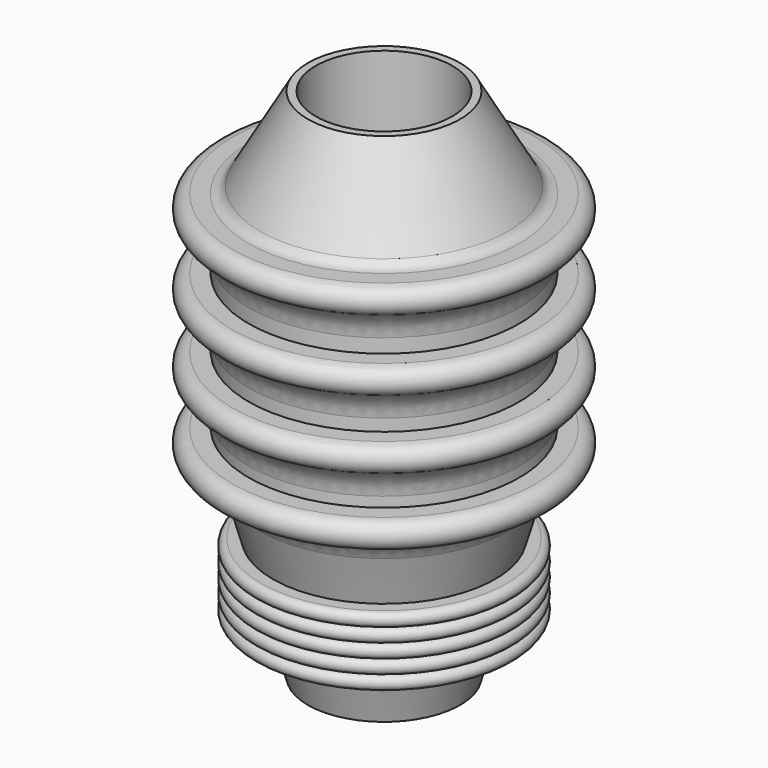
from build123d import *

# Parameters (mm, degrees)
F0_W     = 14.2875
F0_H     = 36.24072
F0_H_2   = 7.6047228576
F0_W_2   = 11.1125
F0_H_3   = 4.9276
F0_H_4   = 7.9756
F0_H_5   = 8.3413971424
F0_H_6   = 16.88846
F2_R     = 6.35
F3_R     = 2.54
F4_R     = 12.827
F5_DEPTH = 96.7623


with BuildPart() as f1:
    # F0 (on Front) → F1 (revolve)
    with BuildSketch(Plane.XZ):
        with Locations((-7.14375, 18.12036)):
            Rectangle(F0_W, F0_H)
        Polygon((-14.2875, 36.24072), (0, 36.24072), (0, 38.70452), (0, 41.16832), (-14.2875, 41.16832), align=None)
        Polygon((-16.021168182, 6.0383167444), (-14.2875, 0), (-14.2875, 36.24072), (-24.6926155007, 36.24072), (-20.8708326172, 22.9295594106), (-20.506201432, 21.6595594106), (-19.7585278225, 19.0554335909), (-19.0108542131, 16.4513077712), (-18.2636852833, 13.8489397364), (-18.2631806036, 13.8471819515), (-17.5155069941, 11.2430561318), (-17.1508758089, 9.9730561318), (-16.7678333847, 8.6389303121), align=None)
        Polygon((-24.6926155007, 36.24072), (-14.2875, 36.24072), (-14.2875, 41.16832), (-25.4, 41.16832), (-25.4, 38.70452), align=None)
        with Locations((-7.14375, 44.9706814288)):
            Rectangle(F0_W, F0_H_2)
        with Locations((-19.84375, 44.9706814288)):
            Rectangle(F0_W_2, F0_H_2)
        Polygon((-25.4, 36.24072), (-24.6926155007, 36.24072), (-25.4, 38.70452), align=None)
        with Locations((-7.14375, 51.2368428576)):
            Rectangle(F0_W, F0_H_3)
        Polygon((-25.4, 48.7730428576), (-14.2875, 48.7730428576), (-14.2875, 53.7006428576), (-25.4, 53.7006428576), (-25.4, 51.2368428576), align=None)
        Polygon((-25.4, 38.70452), (-25.4, 41.16832), (-28.48102, 41.16832), (-28.48102, 36.24072), (-25.4, 36.24072), align=None)
        with BuildLine():
            Line((-20.506201432, 21.6595594106), (-20.8708326172, 22.9295594106))
            Line((-20.8708326172, 22.9295594106), (-23.046201432, 22.9295594106))
            ThreePointArc((-23.046201432, 22.9295594106), (-24.316201432, 21.6595594106), (-23.046201432, 20.3895594106))
            Line((-23.046201432, 20.3895594106), (-23.046201432, 21.6595594106))
            Line((-23.046201432, 21.6595594106), (-20.506201432, 21.6595594106))
        make_face()
        Polygon((-23.046201432, 9.9730561318), (-17.1508758089, 9.9730561318), (-17.5155069941, 11.2430561318), (-23.046201432, 11.2430561318), align=None)
        Polygon((-14.2875, 53.7006428576), (0, 53.7006428576), (0, 58.05678), (0, 61.6762428576), (-14.2875, 61.6762428576), align=None)
        with Locations((-19.84375, 57.6884428576)):
            Rectangle(F0_W_2, F0_H_4)
        Polygon((-28.48102, 48.7730428576), (-25.4, 48.7730428576), (-25.4, 51.2368428576), (-25.4, 53.7006428576), (-28.48102, 53.7006428576), align=None)
        with BuildLine():
            Line((-28.48102, 36.24072), (-28.48102, 41.16832))
            ThreePointArc((-28.48102, 41.16832), (-30.94482, 38.70452), (-28.48102, 36.24072))
        make_face()
        Polygon((-19.7585278225, 19.0554335909), (-20.506201432, 21.6595594106), (-23.046201432, 21.6595594106), (-23.046201432, 20.3895594106), (-23.046201432, 20.3254335909), (-23.046201432, 19.0554335909), align=None)
        Polygon((-23.046201432, 11.2430561318), (-17.5155069941, 11.2430561318), (-18.2631806036, 13.8471819515), (-23.046201432, 13.8471819515), (-23.046201432, 12.5771819515), (-23.046201432, 12.5130561318), align=None)
        with BuildLine():
            ThreePointArc((-23.046201432, 12.5130561318), (-24.316201432, 11.2430561318), (-23.046201432, 9.9730561318))
            Line((-23.046201432, 9.9730561318), (-23.046201432, 11.2430561318))
            Line((-23.046201432, 11.2430561318), (-23.046201432, 12.5130561318))
        make_face()
        Polygon((-25.4, 61.6762428576), (-14.2875, 61.6762428576), (-14.2875, 66.6038428576), (-25.4, 66.6038428576), (-25.4, 64.1400428576), align=None)
        with Locations((-7.14375, 64.1400428576)):
            Rectangle(F0_W, F0_H_3)
        with BuildLine():
            ThreePointArc((-28.48102, 53.7006428576), (-30.94482, 51.2368428576), (-28.48102, 48.7730428576))
            Line((-28.48102, 48.7730428576), (-28.48102, 53.7006428576))
        make_face()
        Polygon((-19.0108542131, 16.4513077712), (-19.7585278225, 19.0554335909), (-23.046201432, 19.0554335909), (-23.046201432, 17.7854335909), (-23.046201432, 17.7213077712), (-23.046201432, 16.4513077712), align=None)
        Polygon((-23.046201432, 13.8471819515), (-18.2631806036, 13.8471819515), (-18.2636852833, 13.8489397364), (-19.0108542131, 16.4513077712), (-23.046201432, 16.4513077712), (-23.046201432, 15.1813077712), (-23.046201432, 15.1171819515), align=None)
        with Locations((-19.84375, 70.7745414288)):
            Rectangle(F0_W_2, F0_H_5)
        with Locations((-7.14375, 70.7745414288)):
            Rectangle(F0_W, F0_H_5)
        Polygon((-28.48102, 61.6762428576), (-25.4, 61.6762428576), (-25.4, 64.1400428576), (-25.4, 66.6038428576), (-28.48102, 66.6038428576), align=None)
        with BuildLine():
            Line((-23.046201432, 17.7854335909), (-23.046201432, 19.0554335909))
            Line((-23.046201432, 19.0554335909), (-23.046201432, 20.3254335909))
            ThreePointArc((-23.046201432, 20.3254335909), (-24.316201432, 19.0554335909), (-23.046201432, 17.7854335909))
        make_face()
        with BuildLine():
            Line((-23.046201432, 12.5771819515), (-23.046201432, 13.8471819515))
            Line((-23.046201432, 13.8471819515), (-23.046201432, 15.1171819515))
            ThreePointArc((-23.046201432, 15.1171819515), (-24.316201432, 13.8471819515), (-23.046201432, 12.5771819515))
        make_face()
        Polygon((-25.4, 74.94524), (-14.2875, 74.94524), (-14.2875, 79.87284), (-23.9852310014, 79.87284), (-25.4, 77.40904), align=None)
        Polygon((-14.2875, 79.87284), (-14.2875, 74.94524), (0, 74.94524), (0, 77.40904), (0, 79.87284), align=None)
        with BuildLine():
            ThreePointArc((-28.48102, 66.6038428576), (-30.94482, 64.1400428576), (-28.48102, 61.6762428576))
            Line((-28.48102, 61.6762428576), (-28.48102, 66.6038428576))
        make_face()
        with BuildLine():
            Line((-23.046201432, 15.1813077712), (-23.046201432, 16.4513077712))
            Line((-23.046201432, 16.4513077712), (-23.046201432, 17.7213077712))
            ThreePointArc((-23.046201432, 17.7213077712), (-24.316201432, 16.4513077712), (-23.046201432, 15.1813077712))
        make_face()
        Polygon((-23.9852310014, 79.87284), (-14.2875, 79.87284), (-14.2875, 96.7613), align=None)
        with Locations((-7.14375, 88.31707)):
            Rectangle(F0_W, F0_H_6)
        Polygon((-28.48102, 74.94524), (-25.4, 74.94524), (-25.4, 77.40904), (-25.4, 79.87284), (-28.48102, 79.87284), align=None)
        Polygon((-25.4, 77.40904), (-23.9852310014, 79.87284), (-25.4, 79.87284), align=None)
        with BuildLine():
            ThreePointArc((-28.48102, 79.87284), (-30.94482, 77.40904), (-28.48102, 74.94524))
            Line((-28.48102, 74.94524), (-28.48102, 79.87284))
        make_face()
    revolve(axis=Axis((0, 0, 87.08517), (0, 0, -1)))

    # F2
    f2_edges = [f1.edges().sort_by_distance(p)[0] for p in [
        (24.692616, 0, 36.24072),
        (25.4, 0, 48.773043),
        (25.4, 0, 61.676243),
        (25.4, 0, 74.94524),
    ]]
    fillet(f2_edges, radius=F2_R)

    # F3
    f3_edges = [f1.edges().sort_by_distance(p)[0] for p in [
        (23.985231, 0, 79.87284),
    ]]
    fillet(f3_edges, radius=F3_R)

    # F4 (on face) → F5 (cut, through all)
    with BuildSketch(Plane.XY.offset(96.7613)):
        Circle(F4_R)
    extrude(amount=-F5_DEPTH, mode=Mode.SUBTRACT)


solid = f1.part
